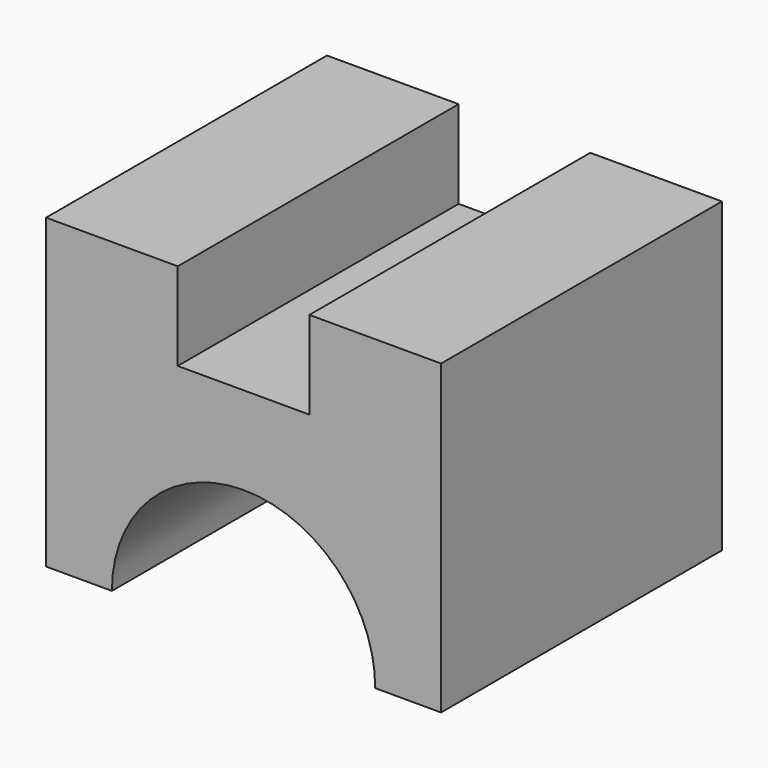
from build123d import *

# Parameters (mm, degrees)
F0_W     = 114.3
F0_H     = 101.6
F1_DEPTH = 63.5
F2_W     = 38.1
F2_H     = 101.6
F3_DEPTH = 25.4
F5_D     = 76.2


with BuildPart() as f1:
    # F0 (on Top) → F1 (new body)
    with BuildSketch(Plane.XY):
        with Locations((57.15, 50.8)):
            Rectangle(F0_W, F0_H)
    extrude(amount=F1_DEPTH)

    # F2 (on face) → F3 (join)
    with BuildSketch(Plane.XY.offset(63.5)):
        with Locations((19.05, 50.8)):
            Rectangle(F2_W, F2_H)
        with Locations((95.25, 50.8)):
            Rectangle(F2_W, F2_H)
    extrude(amount=F3_DEPTH)

    # F5 (through all)
    with Locations(Plane.XZ):
        with Locations((57.15, 0)):
            Hole(F5_D / 2)


solid = f1.part
